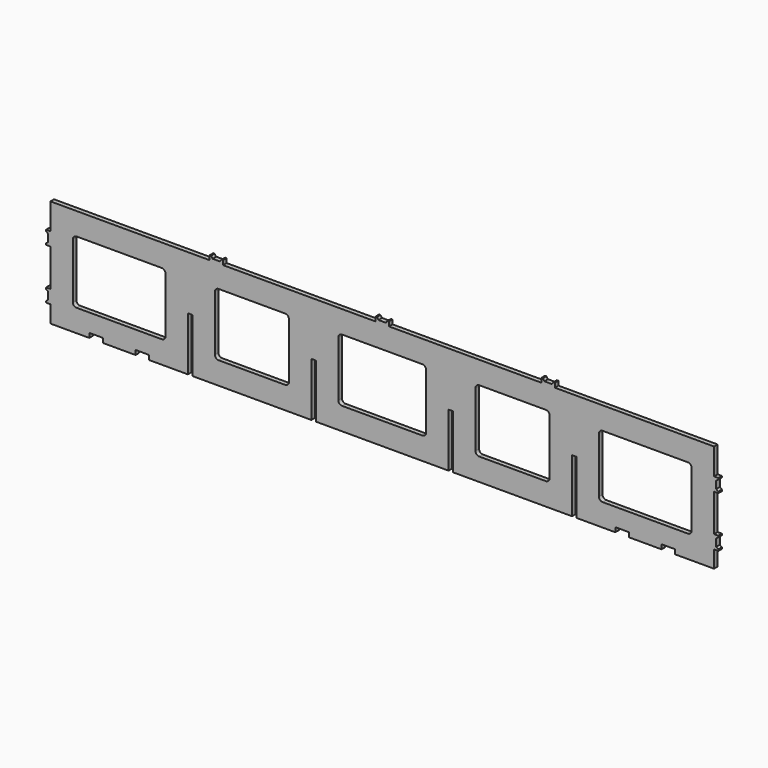
from build123d import *

# Parameters (mm, degrees)
F1_DEPTH = 6


with BuildPart() as f1:
    # F0 (on Front) → F1 (new body)
    with BuildSketch(Plane.XZ):
        Polygon((0, -121.23), (0, -144), (52, -144), (52, -137.99), (70.1, -137.99), (70.1, -144), (114, -144), (114, -137.99), (132.1, -137.99), (132.1, -144), (184, -144), (184, -71.99), (190.01, -71.99), (190.01, -144), (349.2, -144), (349.2, -71.99), (355.21, -71.99), (355.21, -144), (532.79, -144), (532.79, -71.99), (538.8, -71.99), (538.8, -144), (697.99, -144), (697.99, -71.99), (704, -71.99), (704, -144), (755.9, -144), (755.9, -137.99), (774, -137.99), (774, -144), (817.9, -144), (817.9, -137.99), (836, -137.99), (836, -144), (888, -144), (888, -121.23), (893.8, -121.23), (893.8, -119.23), (891, -117.23), (891, -107.23), (893.8, -105.23), (893.8, -103.23), (888, -103.23), (888, -53.21), (893.8, -53.21), (893.8, -51.21), (891, -49.21), (891, -39.21), (893.8, -37.21), (893.8, -35.21), (888, -35.21), (888, 0), (675, 0), (675, 5.8), (673, 5.8), (671, 3), (661, 3), (659, 5.8), (657, 5.8), (657, 0), (453, 0), (453, 5.8), (451, 5.8), (449, 3), (439, 3), (437, 5.8), (435, 5.8), (435, 0), (231, 0), (231, 5.8), (229, 5.8), (227, 3), (217, 3), (215, 5.8), (213, 5.8), (213, 0), (0, 0), (0, -35.21), (-5.8, -35.21), (-5.8, -37.21), (-3, -39.21), (-3, -49.21), (-5.8, -51.21), (-5.8, -53.21), (0, -53.21), (0, -103.23), (-5.8, -103.23), (-5.8, -105.23), (-3, -107.23), (-3, -117.23), (-5.8, -119.23), (-5.8, -121.23), align=None)
        with BuildLine():
            ThreePointArc((30, -35), (31.464466, -31.464466), (35, -30))
            Line((35, -30), (149, -30))
            ThreePointArc((149, -30), (152.535534, -31.464466), (154, -35))
            Line((154, -35), (154, -109))
            ThreePointArc((154, -109), (152.535534, -112.535534), (149, -114))
            Line((149, -114), (35, -114))
            ThreePointArc((35, -114), (31.464466, -112.535534), (30, -109))
            Line((30, -109), (30, -35))
        make_face(mode=Mode.SUBTRACT)
        with BuildLine():
            Line((220.01, -109), (220.01, -35))
            ThreePointArc((220.01, -35), (221.474466, -31.464466), (225.01, -30))
            Line((225.01, -30), (314.2, -30))
            ThreePointArc((314.2, -30), (317.735534, -31.464466), (319.2, -35))
            Line((319.2, -35), (319.2, -109))
            ThreePointArc((319.2, -109), (317.735534, -112.535534), (314.2, -114))
            Line((314.2, -114), (225.01, -114))
            ThreePointArc((225.01, -114), (221.474466, -112.535534), (220.01, -109))
        make_face(mode=Mode.SUBTRACT)
        with BuildLine():
            Line((385.21, -109), (385.21, -35))
            ThreePointArc((385.21, -35), (386.674466, -31.464466), (390.21, -30))
            Line((390.21, -30), (497.79, -30))
            ThreePointArc((497.79, -30), (501.325534, -31.464466), (502.79, -35))
            Line((502.79, -35), (502.79, -109))
            ThreePointArc((502.79, -109), (501.325534, -112.535534), (497.79, -114))
            Line((497.79, -114), (390.21, -114))
            ThreePointArc((390.21, -114), (386.674466, -112.535534), (385.21, -109))
        make_face(mode=Mode.SUBTRACT)
        with BuildLine():
            Line((568.8, -109), (568.8, -35))
            ThreePointArc((568.8, -35), (570.264466, -31.464466), (573.8, -30))
            Line((573.8, -30), (662.99, -30))
            ThreePointArc((662.99, -30), (666.525534, -31.464466), (667.99, -35))
            Line((667.99, -35), (667.99, -109))
            ThreePointArc((667.99, -109), (666.525534, -112.535534), (662.99, -114))
            Line((662.99, -114), (573.8, -114))
            ThreePointArc((573.8, -114), (570.264466, -112.535534), (568.8, -109))
        make_face(mode=Mode.SUBTRACT)
        with BuildLine():
            Line((734, -109), (734, -35))
            ThreePointArc((734, -35), (735.464466, -31.464466), (739, -30))
            Line((739, -30), (853, -30))
            ThreePointArc((853, -30), (856.535534, -31.464466), (858, -35))
            Line((858, -35), (858, -109))
            ThreePointArc((858, -109), (856.535534, -112.535534), (853, -114))
            Line((853, -114), (739, -114))
            ThreePointArc((739, -114), (735.464466, -112.535534), (734, -109))
        make_face(mode=Mode.SUBTRACT)
    extrude(amount=F1_DEPTH)


solid = f1.part
